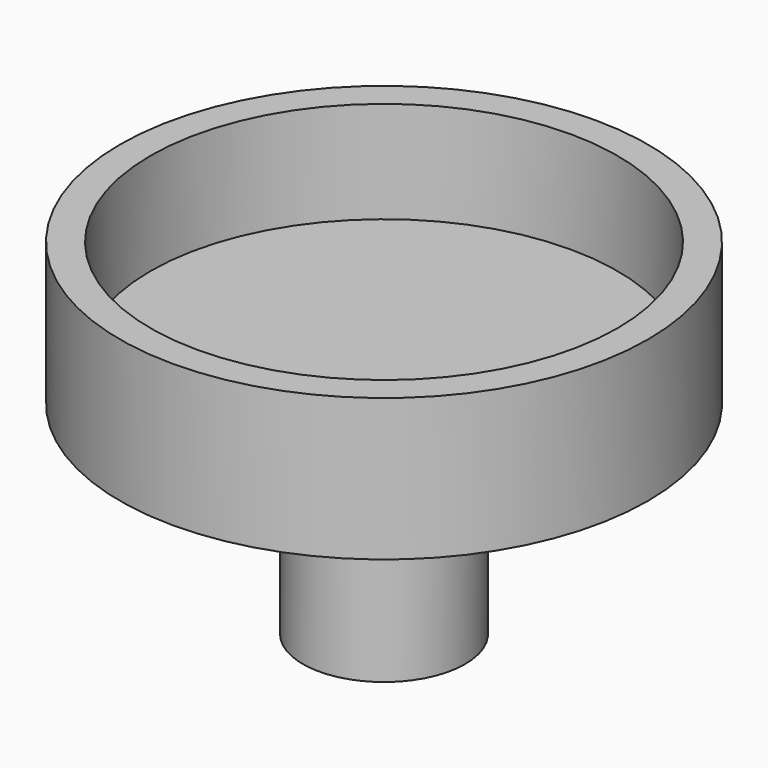
from build123d import *

# Parameters (mm, degrees)
F0_R     = 4
F1_DEPTH = 10
F2_R     = 11.5
F2_R_2   = 4
F3_DEPTH = 2
F2_R_3   = 13
F4_DEPTH = 7


with BuildPart() as f1:
    # F0 (on Top) → F1 (new body)
    with BuildSketch(Plane.XY):
        Circle(F0_R)
    extrude(amount=-F1_DEPTH)


with BuildPart() as f3:
    # F2 (on face) → F3 (new body)
    with BuildSketch(Plane.XY):
        Circle(F2_R)
        Circle(F2_R_2, mode=Mode.SUBTRACT)
        Circle(F2_R_2)
    extrude(amount=F3_DEPTH)

    # F2 (on face) → F4 (join)
    with BuildSketch(Plane.XY):
        Circle(F2_R_3)
        Circle(F2_R, mode=Mode.SUBTRACT)
    extrude(amount=F4_DEPTH)


solid = Compound([f1.part, f3.part])
